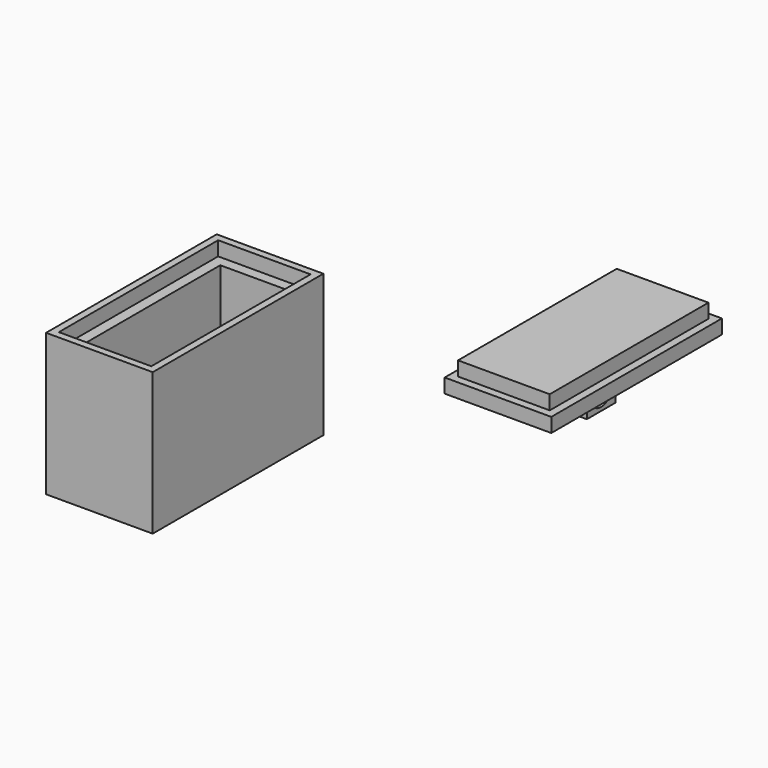
from build123d import *

# Parameters (mm, degrees)
F0_W      = 15
F0_H      = 30
F1_DEPTH  = 20
F2_W      = 10
F2_H      = 25
F3_DEPTH  = 15
F4_W      = 13
F4_H      = 28
F5_DEPTH  = 2
F6_W      = 15
F6_H      = 30
F6_W_2    = 12.9
F6_H_2    = 27.9
F7_DEPTH  = 2
F8_DEPTH  = 4
F10_DEPTH = 5
F12_D     = 4
F14_D     = 4


with BuildPart() as f1:
    # F0 (on Top) → F1 (new body)
    with BuildSketch(Plane.XY):
        Rectangle(F0_W, F0_H)
    extrude(amount=F1_DEPTH)

    # F2 (on face) → F3 (cut)
    with BuildSketch(Plane.XY.offset(20)):
        Rectangle(F2_W, F2_H)
    extrude(amount=-F3_DEPTH, mode=Mode.SUBTRACT)

    # F4 (on face) → F5 (cut)
    with BuildSketch(Plane.XY.offset(20)):
        Rectangle(F4_W, F4_H)
    extrude(amount=-F5_DEPTH, mode=Mode.SUBTRACT)


with BuildPart() as f7:
    # F6 (on Top) → F7 (new body)
    with BuildSketch(Plane.XY):
        with Locations((19.229269, 46.044001)):
            Rectangle(F6_W, F6_H)
        with Locations((19.179269, 46.094001)):
            Rectangle(F6_W_2, F6_H_2, mode=Mode.SUBTRACT)
        with Locations((19.179269, 46.094001)):
            Rectangle(F6_W_2, F6_H_2)
    extrude(amount=F7_DEPTH)

    # F6 (on Top) → F8 (join)
    with BuildSketch(Plane.XY):
        with Locations((19.179269, 46.094001)):
            Rectangle(F6_W_2, F6_H_2)
    extrude(amount=F8_DEPTH)

    # F9 (on face) → F10 (join)
    with BuildSketch(Plane(origin=(0, 0, 0), x_dir=(1, 0, 0), z_dir=(0, 0, -1))):
        Polygon((20.479269, -43.544001), (17.979269, -43.544001), (19.229269, -46.044001), align=None)
        Polygon((19.229269, -46.044001), (17.979269, -43.544001), (16.729269, -43.544001), (16.729269, -48.544001), (17.979269, -48.544001), align=None)
        Polygon((20.479269, -43.544001), (19.229269, -46.044001), (20.479269, -48.544001), (21.729269, -48.544001), (21.729269, -43.544001), align=None)
        Polygon((20.479269, -48.544001), (19.229269, -46.044001), (17.979269, -48.544001), align=None)
    extrude(amount=F10_DEPTH)

    # F12 (through all)
    with Locations(Plane(origin=(0, 48.544001, 0), x_dir=(-1, 0, 0), z_dir=(0, 1, 0))):
        with Locations((-19.229269, -2.5)):
            Hole(F12_D / 2)

    # F14 (through all)
    with Locations(Plane.YZ.offset(21.729269)):
        with Locations((46.044001, -2.5)):
            Hole(F14_D / 2)


solid = Compound([f1.part, f7.part])
